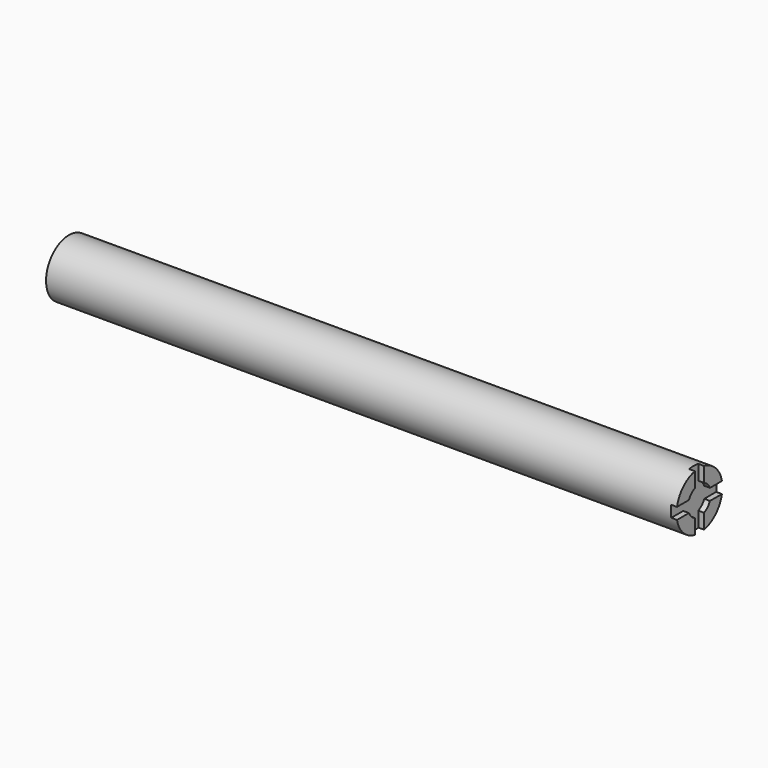
from build123d import *

# Parameters (mm, degrees)
F0_R     = 12.7
F1_DEPTH = 279.4
F2_R     = 6.35
F3_DEPTH = 2.54
F5_DEPTH = 2.54


with BuildPart() as f1:
    # F0 (on Right) → F1 (new body)
    with BuildSketch(Plane.YZ):
        Circle(F0_R)
    extrude(amount=F1_DEPTH)

    # F2 (on face) → F3 (cut)
    with BuildSketch(Plane.YZ.offset(279.4)):
        Circle(F2_R)
    extrude(amount=-F3_DEPTH, mode=Mode.SUBTRACT)

    # F4 (on face) → F5 (cut)
    with BuildSketch(Plane.YZ.offset(279.4)):
        with BuildLine():
            ThreePointArc((-2.54, 5.820199), (0, 6.350301), (2.54, 5.820199))
            Line((2.54, 5.820199), (2.54, 22.743961))
            Line((2.54, 22.743961), (0, 22.743961))
            Line((0, 22.743961), (-2.54, 22.743961))
            Line((-2.54, 22.743961), (-2.54, 5.820199))
        make_face()
        with BuildLine():
            ThreePointArc((5.820199, 2.54), (4.490341, 4.490341), (2.54, 5.820199))
            ThreePointArc((2.54, 5.820199), (0, 6.350301), (-2.54, 5.820199))
            ThreePointArc((-2.54, 5.820199), (-4.490341, 4.490341), (-5.820199, 2.54))
            ThreePointArc((-5.820199, 2.54), (-6.350301, 0), (-5.820199, -2.54))
            ThreePointArc((-5.820199, -2.54), (-4.490341, -4.490341), (-2.54, -5.820199))
            ThreePointArc((-2.54, -5.820199), (0, -6.350301), (2.54, -5.820199))
            ThreePointArc((2.54, -5.820199), (4.490341, -4.490341), (5.820199, -2.54))
            ThreePointArc((5.820199, -2.54), (6.216363, -1.297363), (6.350301, 0))
            ThreePointArc((6.350301, 0), (6.216363, 1.297363), (5.820199, 2.54))
        make_face()
        with BuildLine():
            Line((28.83609, 2.54), (5.820199, 2.54))
            ThreePointArc((5.820199, 2.54), (6.216363, 1.297363), (6.350301, 0))
            ThreePointArc((6.350301, 0), (6.216363, -1.297363), (5.820199, -2.54))
            Line((5.820199, -2.54), (28.83609, -2.54))
            Line((28.83609, -2.54), (28.83609, 0))
            Line((28.83609, 0), (28.83609, 2.54))
        make_face()
        with BuildLine():
            ThreePointArc((-5.820199, -2.54), (-6.350301, 0), (-5.820199, 2.54))
            Line((-5.820199, 2.54), (-28.226878, 2.54))
            Line((-28.226878, 2.54), (-28.226878, 0))
            Line((-28.226878, 0), (-28.226878, -2.54))
            Line((-28.226878, -2.54), (-5.820199, -2.54))
        make_face()
        with BuildLine():
            Line((2.54, -26.602309), (2.54, -5.820199))
            ThreePointArc((2.54, -5.820199), (0, -6.350301), (-2.54, -5.820199))
            Line((-2.54, -5.820199), (-2.54, -26.602309))
            Line((-2.54, -26.602309), (0, -26.602309))
            Line((0, -26.602309), (2.54, -26.602309))
        make_face()
    extrude(amount=-F5_DEPTH, mode=Mode.SUBTRACT)


solid = f1.part
